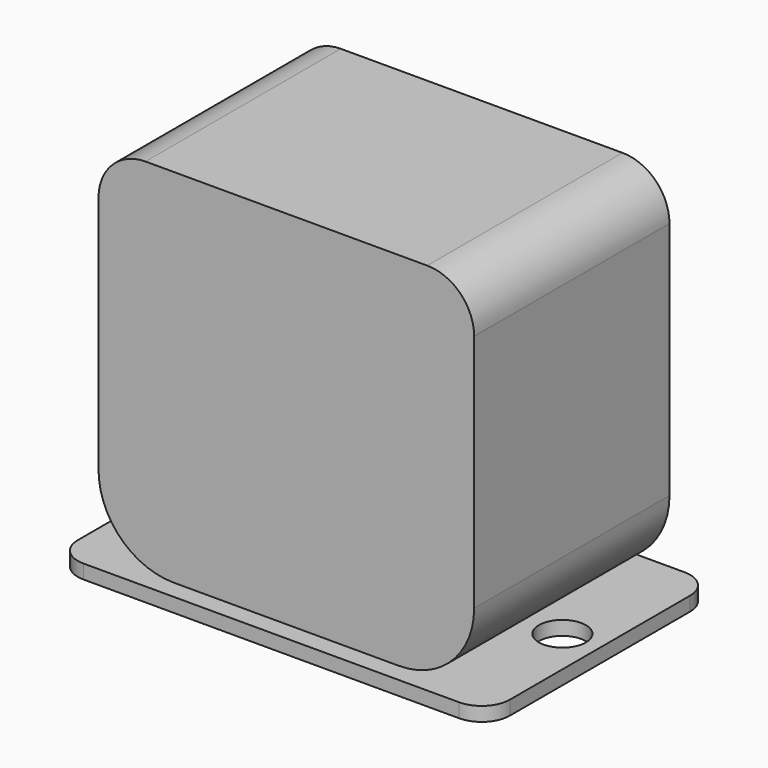
from build123d import *

# Parameters (mm, degrees)
F0_R     = 2.5
F1_DEPTH = 1.5
F3_DEPTH = 38.5
F4_R     = 8
F5_R     = 5


with BuildPart() as f1:
    # F0 (on Top) → F1 (new body)
    with BuildSketch(Plane.XY):
        with BuildLine():
            Line((-20, -15), (20, -15))
            ThreePointArc((20, -15), (22.12132, -14.12132), (23, -12))
            Line((23, -12), (23, 12))
            ThreePointArc((23, 12), (22.12132, 14.12132), (20, 15))
            Line((20, 15), (-20, 15))
            ThreePointArc((-20, 15), (-22.12132, 14.12132), (-23, 12))
            Line((-23, 12), (-23, -12))
            ThreePointArc((-23, -12), (-22.12132, -14.12132), (-20, -15))
        make_face()
        with Locations((-19, 0)):
            Circle(F0_R, mode=Mode.SUBTRACT)
        with Locations((19, 0)):
            Circle(F0_R, mode=Mode.SUBTRACT)
    extrude(amount=F1_DEPTH)


with BuildPart() as f3:
    # F2 (on face) → F3 (new body)
    with BuildSketch(Plane.XY.offset(1.5)):
        with BuildLine():
            Line((-20, -13), (20, -13))
            Line((20, -13), (20, -2.291288))
            ThreePointArc((20, -2.291288), (16.5, 0), (20, 2.291288))
            Line((20, 2.291288), (20, 13))
            Line((20, 13), (-20, 13))
            Line((-20, 13), (-20, 2.291288))
            ThreePointArc((-20, 2.291288), (-17.630694, 2.09165), (-16.5, 0))
            ThreePointArc((-16.5, 0), (-17.630694, -2.09165), (-20, -2.291288))
            Line((-20, -2.291288), (-20, -13))
        make_face()
        with BuildLine():
            Line((-20, 2.291288), (-20, -2.291288))
            ThreePointArc((-20, -2.291288), (-17.630694, -2.09165), (-16.5, 0))
            ThreePointArc((-16.5, 0), (-17.630694, 2.09165), (-20, 2.291288))
        make_face()
        with BuildLine():
            ThreePointArc((20, 2.291288), (16.5, 0), (20, -2.291288))
            Line((20, -2.291288), (20, 2.291288))
        make_face()
    extrude(amount=F3_DEPTH)

    # F4
    f4_edges = [f3.edges().sort_by_distance(p)[0] for p in [
        (-20, 0, 1.5),
        (20, 0, 1.5),
    ]]
    fillet(f4_edges, radius=F4_R)

    # F5
    f5_edges = [f3.edges().sort_by_distance(p)[0] for p in [
        (-20, 0, 40),
        (20, 0, 40),
    ]]
    fillet(f5_edges, radius=F5_R)


solid = Compound([f1.part, f3.part])
